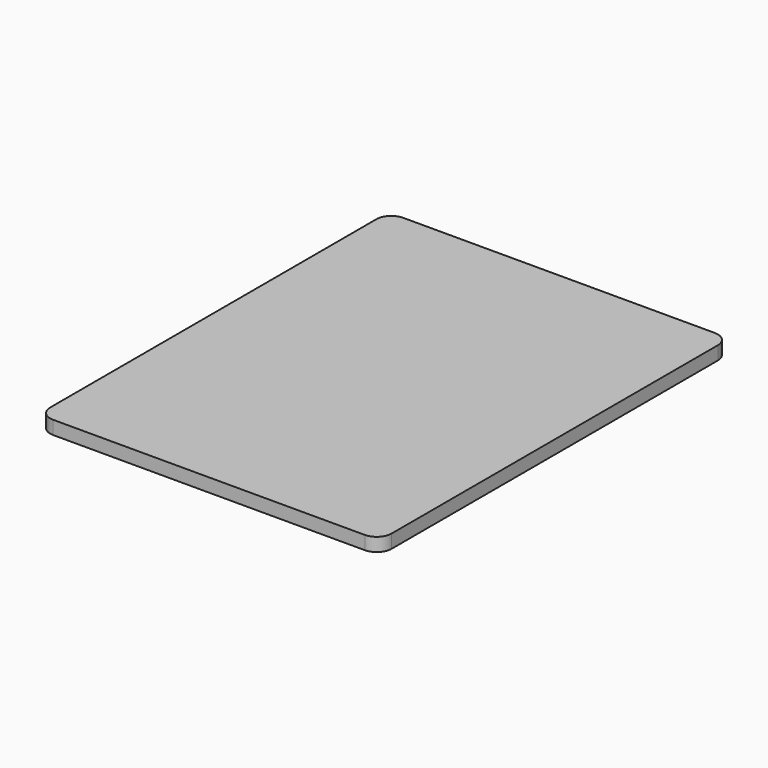
from build123d import *

# Parameters (mm, degrees)
F0_W     = 116.560347
F0_H     = 149.375044
F1_DEPTH = 4.591908
F2_R     = 5.08
F3_R     = 5.08
F4_R     = 5.08


with BuildPart() as f1:
    # F0 (on Top) → F1 (new body)
    with BuildSketch(Plane.XY):
        with Locations((-0.013132, -1.645226)):
            Rectangle(F0_W, F0_H)
    extrude(amount=F1_DEPTH)

    # F2
    f2_edges = [f1.edges().sort_by_distance(p)[0] for p in [
        (58.267042, 73.042296, 2.295954),
    ]]
    fillet(f2_edges, radius=F2_R)

    # F3
    f3_edges = [f1.edges().sort_by_distance(p)[0] for p in [
        (-58.293305, 73.042296, 2.295954),
    ]]
    fillet(f3_edges, radius=F3_R)

    # F4
    f4_edges = [f1.edges().sort_by_distance(p)[0] for p in [
        (58.267042, -76.332748, 2.295954),
        (-58.293305, -76.332748, 2.295954),
    ]]
    fillet(f4_edges, radius=F4_R)


solid = f1.part
